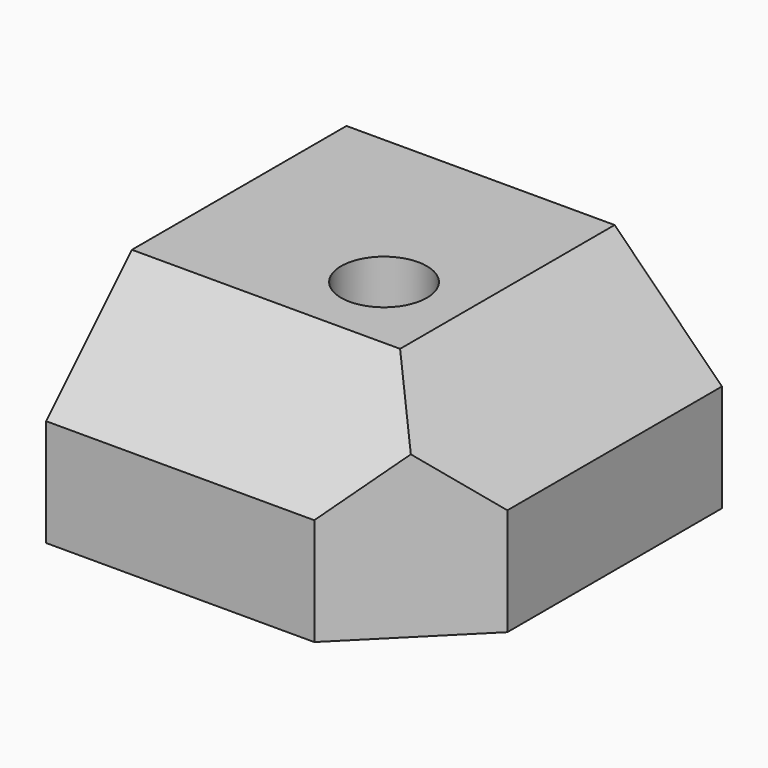
from build123d import *

# Parameters (mm, degrees)
F0_W      = 35
F0_H      = 35
F2_W      = 25
F2_H      = 25
F4_W      = 35
F4_H      = 35
F4_R      = 1.6
F5_DEPTH  = 10
F6_DEPTH  = 10.0010001
F7_R      = 4
F7_R_2    = 1.6
F8_DEPTH  = 15
F10_DEPTH = 25


with BuildPart() as f3:
    # F0 (on Top) → F3 section 0
    with BuildSketch(Plane.XY):
        with Locations((17.5, -17.5)):
            Rectangle(F0_W, F0_H)
    # F2 (on offset) → F3 section 1
    with BuildSketch(Plane.XY.offset(10)):
        with Locations((12.5, -12.5)):
            Rectangle(F2_W, F2_H)
    loft()

    # F4 (on face) → F5 (join)
    with BuildSketch(Plane(origin=(0, 0, 0), x_dir=(1, 0, 0), z_dir=(0, 0, -1))):
        with Locations((17.5, 17.5)):
            Rectangle(F4_W, F4_H)
        with Locations((17.5, 17.5)):
            Circle(F4_R, mode=Mode.SUBTRACT)
    extrude(amount=F5_DEPTH)

    # F4 (on face) → F6 (cut, through all)
    with BuildSketch(Plane(origin=(0, 0, 0), x_dir=(1, 0, 0), z_dir=(0, 0, -1))):
        with Locations((17.5, 17.5)):
            Circle(F4_R)
    extrude(amount=-F6_DEPTH, mode=Mode.SUBTRACT)

    # F7 (on face) → F8 (cut)
    with BuildSketch(Plane.XY.offset(10)):
        with Locations((17.5, -17.5)):
            Circle(F7_R)
        with Locations((17.5, -17.5)):
            Circle(F7_R_2, mode=Mode.SUBTRACT)
    extrude(amount=-F8_DEPTH, mode=Mode.SUBTRACT)

    # F9 (on face) → F10 (cut)
    with BuildSketch(Plane(origin=(0, 0, -10), x_dir=(1, 0, 0), z_dir=(0, 0, -1))):
        Polygon((35, 25), (35, 35), (25, 35), align=None)
    extrude(amount=-F10_DEPTH, mode=Mode.SUBTRACT)


solid = f3.part
